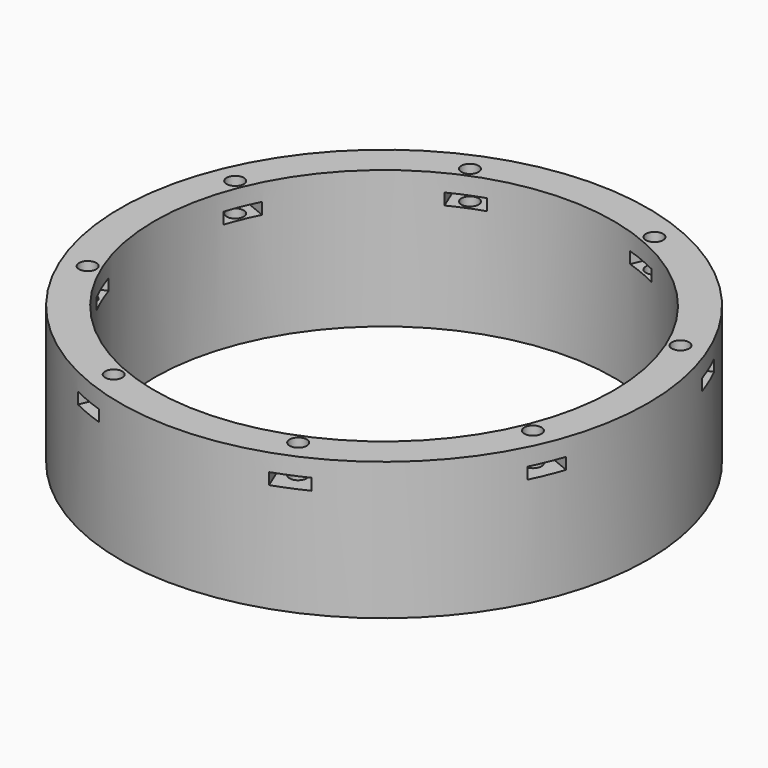
from build123d import *

# Parameters (mm, degrees)
BOX489_W                     = 6
BOX489_H                     = 8
BOX489_DEPTH                 = 2
BOX489_PLACEMENT_ANGLE       = 45
BOX487_W                     = 6
BOX487_H                     = 8
BOX487_DEPTH                 = 2
BOX486_W                     = 6
BOX486_H                     = 8
BOX486_DEPTH                 = 2
BOX491_W                     = 6
BOX491_H                     = 8
BOX491_DEPTH                 = 2
BOX491_PLACEMENT_ANGLE       = 135
BOX490_W                     = 6
BOX490_H                     = 8
BOX490_DEPTH                 = 2
BOX485_W                     = 6
BOX485_H                     = 8
BOX485_DEPTH                 = 2
BOX485_PLACEMENT_ANGLE       = 225
BOX488_W                     = 6
BOX488_H                     = 8
BOX488_DEPTH                 = 2
BOX492_W                     = 6
BOX492_H                     = 8
BOX492_DEPTH                 = 2
BOX492_PLACEMENT_ANGLE       = 45
COMPOUND901_PLACEMENT_ANGLE  = 22.5
CYLINDER1205_R               = 1.5
CYLINDER1205_DEPTH           = 32
CYLINDER1205_PLACEMENT_ANGLE = 45
CYLINDER1204_R               = 1.5
CYLINDER1204_DEPTH           = 32
CYLINDER1203_R               = 1.5
CYLINDER1203_DEPTH           = 32
CYLINDER1203_PLACEMENT_ANGLE = 135
CYLINDER1208_R               = 1.5
CYLINDER1208_DEPTH           = 32
CYLINDER1201_R               = 1.5
CYLINDER1201_DEPTH           = 32
CYLINDER1201_PLACEMENT_ANGLE = 225
CYLINDER1202_R               = 1.5
CYLINDER1202_DEPTH           = 32
CYLINDER1206_R               = 1.5
CYLINDER1206_DEPTH           = 32
CYLINDER1206_PLACEMENT_ANGLE = 45
CYLINDER1207_R               = 1.5
CYLINDER1207_DEPTH           = 32
COMPOUND900_PLACEMENT_ANGLE  = 22.5
TUBE111_R                    = 46
TUBE111_R_2                  = 40
TUBE111_DEPTH                = 24


with BuildPart() as krychle489:
    # Box489 → Box489 (new body)
    with BuildSketch(Plane.XY):
        with Locations((3, 4)):
            Rectangle(BOX489_W, BOX489_H)
    extrude(amount=BOX489_DEPTH)


with BuildPart() as krychle489_1:
    # Box489 placement: moved
    add(krychle489.part.moved(Location((30.405592, -34.648232, 33))).rotate(Axis((30.405592, -34.648232, 33), (0, 0, 1)), BOX489_PLACEMENT_ANGLE))


with BuildPart() as krychle487:
    # Box487 → Box487 (new body)
    with BuildSketch(Plane(origin=(46, -3, 33), x_dir=(0, 1, 0), z_dir=(0, 0, 1))):
        with Locations((3, 4)):
            Rectangle(BOX487_W, BOX487_H)
    extrude(amount=BOX487_DEPTH)


with BuildPart() as krychle486:
    # Box486 → Box486 (new body)
    with BuildSketch(Plane(origin=(-3, -46, 33), x_dir=(1, 0, 0), z_dir=(0, 0, 1))):
        with Locations((3, 4)):
            Rectangle(BOX486_W, BOX486_H)
    extrude(amount=BOX486_DEPTH)


with BuildPart() as krychle491:
    # Box491 → Box491 (new body)
    with BuildSketch(Plane.XY):
        with Locations((3, 4)):
            Rectangle(BOX491_W, BOX491_H)
    extrude(amount=BOX491_DEPTH)


with BuildPart() as krychle491_1:
    # Box491 placement: moved
    add(krychle491.part.moved(Location((34.648232, 30.405592, 33))).rotate(Axis((34.648232, 30.405592, 33), (0, 0, 1)), BOX491_PLACEMENT_ANGLE))


with BuildPart() as krychle490:
    # Box490 → Box490 (new body)
    with BuildSketch(Plane(origin=(3, 46, 33), x_dir=(-1, 0, 0), z_dir=(0, 0, 1))):
        with Locations((3, 4)):
            Rectangle(BOX490_W, BOX490_H)
    extrude(amount=BOX490_DEPTH)


with BuildPart() as krychle485:
    # Box485 → Box485 (new body)
    with BuildSketch(Plane.XY):
        with Locations((3, 4)):
            Rectangle(BOX485_W, BOX485_H)
    extrude(amount=BOX485_DEPTH)


with BuildPart() as krychle485_1:
    # Box485 placement: moved
    add(krychle485.part.moved(Location((-30.405592, 34.648232, 33))).rotate(Axis((-30.405592, 34.648232, 33), (0, 0, 1)), BOX485_PLACEMENT_ANGLE))


with BuildPart() as krychle488:
    # Box488 → Box488 (new body)
    with BuildSketch(Plane(origin=(-46, 3, 33), x_dir=(0, -1, 0), z_dir=(0, 0, 1))):
        with Locations((3, 4)):
            Rectangle(BOX488_W, BOX488_H)
    extrude(amount=BOX488_DEPTH)


with BuildPart() as compound901:
    # Box492 → Box492 (new body)
    with BuildSketch(Plane.XY):
        with Locations((3, 4)):
            Rectangle(BOX492_W, BOX492_H)
    extrude(amount=BOX492_DEPTH)


with BuildPart() as compound901_1:
    # Box492 placement: moved
    add(compound901.part.moved(Location((-34.648232, -30.405592, 33))).rotate(Axis((-34.648232, -30.405592, 33), (0, 0, -1)), BOX492_PLACEMENT_ANGLE))

    # Compound901: union Krychle489, Krychle487, Krychle486, Krychle491, Krychle490, Krychle485, Krychle488
    add(krychle489_1.part)
    add(krychle487.part)
    add(krychle486.part)
    add(krychle491_1.part)
    add(krychle490.part)
    add(krychle485_1.part)
    add(krychle488.part)


with BuildPart() as compound901_2:
    # Compound901 placement: moved
    add(compound901_1.part.moved(Location((0, 0, 7))).rotate(Axis((0, 0, 7), (0, 0, 1)), COMPOUND901_PLACEMENT_ANGLE))


with BuildPart() as obj1:
    # Cylinder1205 → Cylinder1205 (new body)
    with BuildSketch(Plane.XY):
        Circle(CYLINDER1205_R)
    extrude(amount=CYLINDER1205_DEPTH)


with BuildPart() as obj1_1:
    # Cylinder1205 placement: moved
    add(obj1.part.moved(Location((29.698485, -29.698485, 33.5))).rotate(Axis((29.698485, -29.698485, 33.5), (0, 0, 1)), CYLINDER1205_PLACEMENT_ANGLE))


with BuildPart() as obj2:
    # Cylinder1204 → Cylinder1204 (new body)
    with BuildSketch(Plane(origin=(42, 0, 33.5), x_dir=(0, 1, 0), z_dir=(0, 0, 1))):
        Circle(CYLINDER1204_R)
    extrude(amount=CYLINDER1204_DEPTH)


with BuildPart() as obj3:
    # Cylinder1203 → Cylinder1203 (new body)
    with BuildSketch(Plane.XY):
        Circle(CYLINDER1203_R)
    extrude(amount=CYLINDER1203_DEPTH)


with BuildPart() as obj3_1:
    # Cylinder1203 placement: moved
    add(obj3.part.moved(Location((29.698485, 29.698485, 33.5))).rotate(Axis((29.698485, 29.698485, 33.5), (0, 0, 1)), CYLINDER1203_PLACEMENT_ANGLE))


with BuildPart() as obj4:
    # Cylinder1208 → Cylinder1208 (new body)
    with BuildSketch(Plane(origin=(0, 42, 33.5), x_dir=(-1, 0, 0), z_dir=(0, 0, 1))):
        Circle(CYLINDER1208_R)
    extrude(amount=CYLINDER1208_DEPTH)


with BuildPart() as obj5:
    # Cylinder1201 → Cylinder1201 (new body)
    with BuildSketch(Plane.XY):
        Circle(CYLINDER1201_R)
    extrude(amount=CYLINDER1201_DEPTH)


with BuildPart() as obj5_1:
    # Cylinder1201 placement: moved
    add(obj5.part.moved(Location((-29.698485, 29.698485, 33.5))).rotate(Axis((-29.698485, 29.698485, 33.5), (0, 0, 1)), CYLINDER1201_PLACEMENT_ANGLE))


with BuildPart() as obj6:
    # Cylinder1202 → Cylinder1202 (new body)
    with BuildSketch(Plane(origin=(-42, 0, 33.5), x_dir=(0, -1, 0), z_dir=(0, 0, 1))):
        Circle(CYLINDER1202_R)
    extrude(amount=CYLINDER1202_DEPTH)


with BuildPart() as obj7:
    # Cylinder1206 → Cylinder1206 (new body)
    with BuildSketch(Plane.XY):
        Circle(CYLINDER1206_R)
    extrude(amount=CYLINDER1206_DEPTH)


with BuildPart() as obj7_1:
    # Cylinder1206 placement: moved
    add(obj7.part.moved(Location((-29.698485, -29.698485, 33.5))).rotate(Axis((-29.698485, -29.698485, 33.5), (0, 0, -1)), CYLINDER1206_PLACEMENT_ANGLE))


with BuildPart() as compound900:
    # Cylinder1207 → Cylinder1207 (new body)
    with BuildSketch(Plane(origin=(0, -42, 33.5), x_dir=(1, 0, 0), z_dir=(0, 0, 1))):
        Circle(CYLINDER1207_R)
    extrude(amount=CYLINDER1207_DEPTH)

    # Compound900: union obj1, obj2, obj3, obj4, obj5, obj6, obj7
    add(obj1_1.part)
    add(obj2.part)
    add(obj3_1.part)
    add(obj4.part)
    add(obj5_1.part)
    add(obj6.part)
    add(obj7_1.part)


with BuildPart() as compound900_1:
    # Compound900 placement: moved
    add(compound900.part.moved(Location((0, 0, 4))).rotate(Axis((0, 0, 4), (0, 0, 1)), COMPOUND900_PLACEMENT_ANGLE))


with BuildPart() as cut456:
    # Tube111 → Tube111 (new body)
    with BuildSketch(Plane.XY.offset(21)):
        Circle(TUBE111_R)
        Circle(TUBE111_R_2, mode=Mode.SUBTRACT)
    extrude(amount=TUBE111_DEPTH)

    # Cut455: cut Compound900
    add(compound900_1.part, mode=Mode.SUBTRACT)

    # Cut456: cut Compound901
    add(compound901_2.part, mode=Mode.SUBTRACT)


solid = cut456.part
